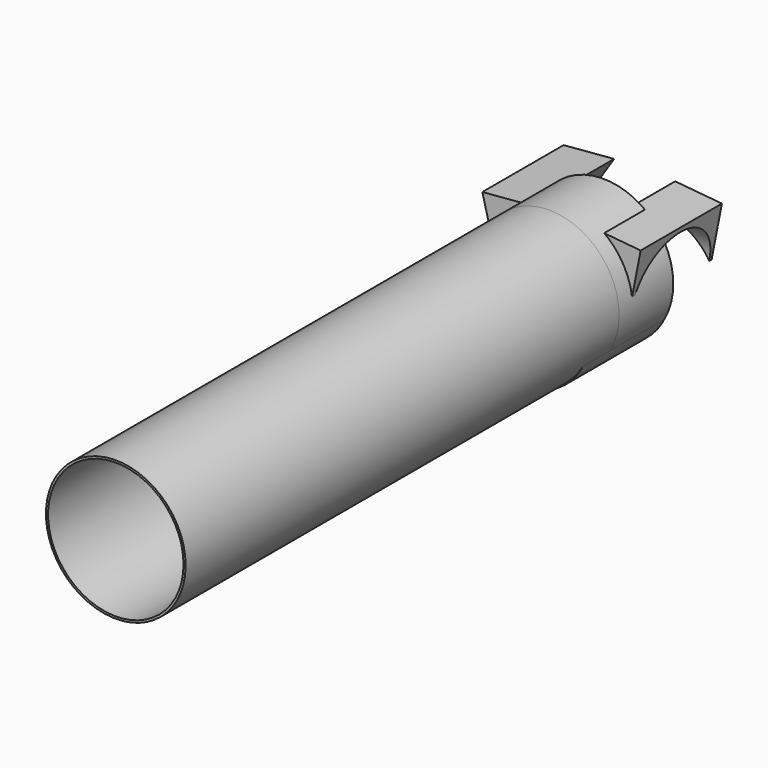
from build123d import *

# Parameters (mm, degrees)
F0_R      = 50.8
F1_DEPTH  = 12.7
F2_R      = 50.8
F3_DEPTH  = 304.8
F5_DEPTH  = 76.2
F6_DEPTH  = 6.35
F7_R      = 52.3875
F7_R_2    = 50.8
F8_DEPTH  = 457.2
F9_DEPTH  = 50.8
F11_DEPTH = 38.1
F13_DEPTH = 58.4137828479


with BuildPart() as f1:
    # F0 (on Front) → F1 (new body)
    with BuildSketch(Plane.XZ):
        Circle(F0_R)
        with BuildLine():
            ThreePointArc((-2.8257822299, -5.6866030976), (1.766e-07, -6.35), (2.8257825462, -5.6866029404))
            Line((2.8257825462, -5.6866029404), (21.8998147334, -44.0711727878))
            ThreePointArc((21.8998147334, -44.0711727878), (1.3688e-06, -49.2125), (-21.8998122818, -44.0711740061))
            Line((-21.8998122818, -44.0711740061), (-2.8257822299, -5.6866030976))
        make_face(mode=Mode.SUBTRACT)
        with BuildLine():
            Line((-27.2168516436, 41.0013797678), (-3.511851825, 5.2905006152))
            ThreePointArc((-3.511851825, 5.2905006152), (-5.4992615201, 3.1749996431), (-6.3376338954, 0.3961017645))
            Line((-6.3376338954, 0.3961017645), (-49.1166626894, 3.0697886751))
            ThreePointArc((-49.1166626894, 3.0697886751), (-42.6192767807, 24.606247234), (-27.2168516436, 41.0013797678))
        make_face(mode=Mode.SUBTRACT)
        with BuildLine():
            ThreePointArc((2.8257819136, 5.6866032548), (-5.299e-07, 6.35), (-2.8257828626, 5.6866027832))
            Line((-2.8257828626, 5.6866027832), (-21.899817185, 44.0711715696))
            ThreePointArc((-21.899817185, 44.0711715696), (-4.1064e-06, 49.2125), (21.8998098301, 44.0711752243))
            Line((21.8998098301, 44.0711752243), (2.8257819136, 5.6866032548))
        make_face(mode=Mode.SUBTRACT)
        with BuildLine():
            ThreePointArc((27.216844801, 41.0013843099), (42.6192740431, 24.6062519757), (49.1166625186, 3.0697914074))
            Line((49.1166625186, 3.0697914074), (6.3376338734, 0.3961021171))
            ThreePointArc((6.3376338734, 0.3961021171), (5.4992611668, 3.1750002549), (3.5118509421, 5.2905012013))
            Line((3.5118509421, 5.2905012013), (27.216844801, 41.0013843099))
        make_face(mode=Mode.SUBTRACT)
    extrude(amount=F1_DEPTH)


with BuildPart() as f3:
    # F2 (on Front) → F3 (new body)
    with BuildSketch(Plane.XZ):
        Circle(F2_R)
        with BuildLine():
            ThreePointArc((24.3512589376, -42.7654807573), (-0.1478803566, -49.2122778141), (-24.6078329789, -42.6183612112))
            Line((-24.6078329789, -42.6183612112), (-3.1752042553, -5.4991433821))
            ThreePointArc((-3.1752042553, -5.4991433821), (-0.0190813363, -6.3499713308), (3.1420979274, -5.5181265493))
            Line((3.1420979274, -5.5181265493), (24.3512589376, -42.7654807573))
        make_face(mode=Mode.SUBTRACT)
        with BuildLine():
            Line((24.6078329789, 42.6183612112), (3.1752042553, 5.4991433821))
            ThreePointArc((3.1752042553, 5.4991433821), (0.0190813363, 6.3499713308), (-3.1420979274, 5.5181265493))
            Line((-3.1420979274, 5.5181265493), (-24.3512589376, 42.7654807573))
            ThreePointArc((-24.3512589376, 42.7654807573), (0.1478803566, 49.2122778141), (24.6078329789, 42.6183612112))
        make_face(mode=Mode.SUBTRACT)
    extrude(amount=F3_DEPTH)


with BuildPart() as f5:
    # F4 (on Front) → F5 (new body)
    with BuildSketch(Plane.XZ):
        with BuildLine():
            ThreePointArc((-21.5448017816, -46.7972523877), (-42.2642635429, -27.3323303573), (-48.7616521892, 0.3437102935))
            Line((-48.7616521892, 0.3437102935), (-50.346060663, 0.4427357347))
            ThreePointArc((-50.346060663, 0.4427357347), (0.3550119132, -53.5260783816), (51.0560814871, 0.4427385551))
            Line((51.0560814871, 0.4427385551), (49.4716730188, 0.3437130258))
            ThreePointArc((49.4716730188, 0.3437130258), (42.9742859121, -27.3323279864), (22.2548252336, -46.7972511694))
            ThreePointArc((22.2548252336, -46.7972511694), (0.355011869, -51.9385783816), (-21.5448017816, -46.7972523877))
        make_face()
        with BuildLine():
            Line((-26.8618411434, 38.2753013862), (-3.1568413248, 2.5644222336))
            ThreePointArc((-3.1568413248, 2.5644222336), (-5.1442510199, 0.4489212615), (-5.9826233952, -2.3299766171))
            Line((-5.9826233952, -2.3299766171), (-48.7616521892, 0.3437102935))
            ThreePointArc((-48.7616521892, 0.3437102935), (-42.2642635429, -27.3323303573), (-21.5448017816, -46.7972523877))
            Line((-21.5448017816, -46.7972523877), (-2.4707717297, -8.4126814791))
            ThreePointArc((-2.4707717297, -8.4126814791), (0.3550106768, -9.0760783816), (3.1807930464, -8.412681322))
            Line((3.1807930464, -8.412681322), (22.2548252336, -46.7972511694))
            ThreePointArc((22.2548252336, -46.7972511694), (42.9742859121, -27.3323279864), (49.4716730188, 0.3437130258))
            Line((49.4716730188, 0.3437130258), (6.6926443736, -2.3299762645))
            ThreePointArc((6.6926443736, -2.3299762645), (5.854271667, 0.4489218733), (3.8668614423, 2.5644228197))
            Line((3.8668614423, 2.5644228197), (28.4498180367, 39.5979312286))
            ThreePointArc((28.4498180367, 39.5979312286), (0.3550062613, 48.0739216184), (-27.7398040996, 39.59792654))
            Line((-27.7398040996, 39.59792654), (-26.8618411434, 38.2753013862))
        make_face()
        with BuildLine():
            ThreePointArc((3.1807924138, 2.9605248732), (0.3550099703, 3.6239216184), (-2.4707723624, 2.9605244016))
            Line((-2.4707723624, 2.9605244016), (-21.5448066848, 41.345093188))
            ThreePointArc((-21.5448066848, 41.345093188), (0.3550063938, 46.4864216184), (22.2548203303, 41.3450968427))
            Line((22.2548203303, 41.3450968427), (3.1807924138, 2.9605248732))
        make_face(mode=Mode.SUBTRACT)
    extrude(amount=F5_DEPTH)


with BuildPart() as f6:
    # F2 (on Front) → F6 (new body)
    with BuildSketch(Plane.XZ):
        Circle(F2_R)
        with BuildLine():
            ThreePointArc((24.3512589376, -42.7654807573), (-0.1478803566, -49.2122778141), (-24.6078329789, -42.6183612112))
            Line((-24.6078329789, -42.6183612112), (-3.1752042553, -5.4991433821))
            ThreePointArc((-3.1752042553, -5.4991433821), (-0.0190813363, -6.3499713308), (3.1420979274, -5.5181265493))
            Line((3.1420979274, -5.5181265493), (24.3512589376, -42.7654807573))
        make_face(mode=Mode.SUBTRACT)
        with BuildLine():
            Line((24.6078329789, 42.6183612112), (3.1752042553, 5.4991433821))
            ThreePointArc((3.1752042553, 5.4991433821), (0.0190813363, 6.3499713308), (-3.1420979274, 5.5181265493))
            Line((-3.1420979274, 5.5181265493), (-24.3512589376, 42.7654807573))
            ThreePointArc((-24.3512589376, 42.7654807573), (0.1478803566, 49.2122778141), (24.6078329789, 42.6183612112))
        make_face(mode=Mode.SUBTRACT)
    extrude(amount=F6_DEPTH)


with BuildPart() as f8:
    # F7 (on Front) → F8 (new body)
    with BuildSketch(Plane.XZ):
        Circle(F7_R)
        Circle(F7_R_2, mode=Mode.SUBTRACT)
    extrude(amount=F8_DEPTH)


with BuildPart() as f9:
    # F7 (on Front) → F9 (new body)
    with BuildSketch(Plane.XZ):
        Circle(F7_R)
        Circle(F7_R_2, mode=Mode.SUBTRACT)
    extrude(amount=F9_DEPTH)


with BuildPart() as f11:
    # F10 (on Front) → F11 (new body, symmetric)
    with BuildSketch(Plane.XZ):
        Polygon((50.6772324443, 0), (58.4127828479, 39.4957661629), (23.34170416, 42.7798852324), align=None)
    extrude(amount=F11_DEPTH, both=True)

    # F12 (on Right) → F13 (cut, through all)
    with BuildSketch(Plane.YZ):
        with BuildLine():
            Line((0, 0), (35.9254231564, 0))
            ThreePointArc((35.9254231564, 0), (0, 35.9254231564), (-35.9254231564, 0))
            Line((-35.9254231564, 0), (0, 0))
        make_face()
    extrude(amount=F13_DEPTH, mode=Mode.SUBTRACT)


with BuildPart() as f11b:
    # F10 (on Front) → F11, piece 2 (new body, symmetric)
    with BuildSketch(Plane.XZ):
        Polygon((-22.4420726299, 42.6717028022), (-60.3219270706, 39.4957661629), (-50.1920245588, 0), align=None)
    extrude(amount=F11_DEPTH, both=True)


solid = Compound([f1.part, f3.part, f5.part, f6.part, f8.part, f9.part, f11.part, f11b.part])
